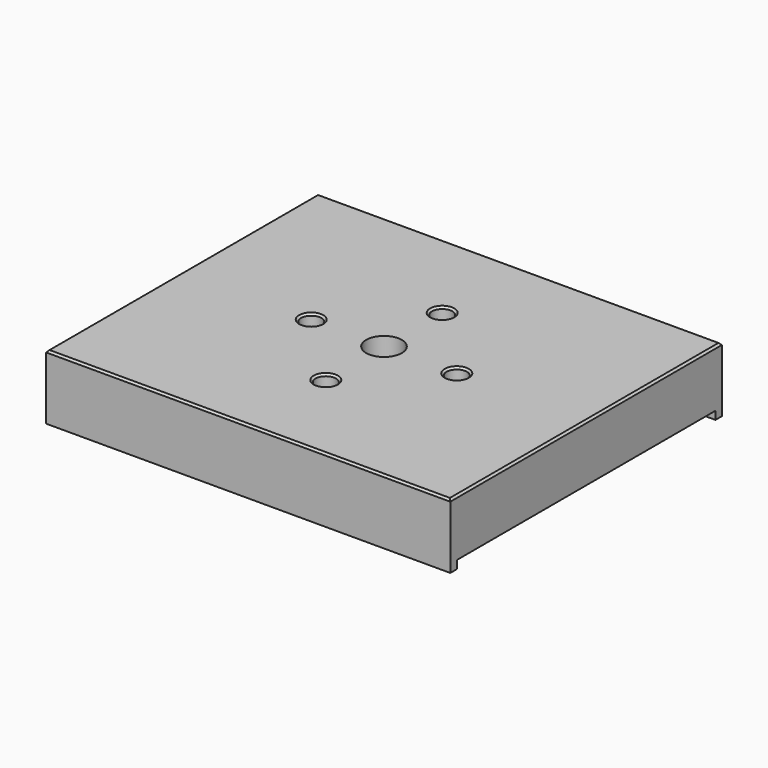
from build123d import *

# Parameters (mm, degrees)
F1_DEPTH = 158.75
F2_R     = 4
F3_DEPTH = 12.7
F4_SIZE  = 0.762
F5_D     = 14
F5_DEPTH = 16.16
F5_TIP   = 4.2060243332


with BuildPart() as f1:
    # F0 (on Right) → F1 (new body)
    with BuildSketch(Plane.YZ):
        Polygon((0, 25.4), (0, 0), (3.175, 0), (3.175, 3.175), (130.175, 3.175), (130.175, 0), (133.35, 0), (133.35, 25.4), align=None)
    extrude(amount=F1_DEPTH)

    # F2 (on face) → F3 (cut)
    with BuildSketch(Plane.XY.offset(25.4)):
        with Locations((79.375, 95.25)):
            Circle(F2_R)
        with Locations((50.8, 66.675)):
            Circle(F2_R)
        with Locations((79.375, 38.1)):
            Circle(F2_R)
        with Locations((107.95, 66.675)):
            Circle(F2_R)
    extrude(amount=-F3_DEPTH, mode=Mode.SUBTRACT)

    # F4
    f4_edges = [f1.edges().sort_by_distance(p)[0] for p in [
        (75.375, 95.25, 25.4),
        (103.95, 66.675, 25.4),
        (75.375, 38.1, 25.4),
        (46.8, 66.675, 25.4),
        (79.375, 133.35, 25.4),
        (0, 66.675, 25.4),
        (79.375, 0, 25.4),
        (158.75, 66.675, 25.4),
    ]]
    chamfer(f4_edges, length=F4_SIZE)

    # F5
    with Locations(Plane.XY.offset(25.4)):
        with Locations((79.375, 66.675)):
            Hole(F5_D / 2, depth=F5_DEPTH)
            with Locations((0, 0, -(F5_DEPTH + F5_TIP / 2))):  # 118° drill point
                Cone(0, F5_D / 2, F5_TIP, mode=Mode.SUBTRACT)


solid = f1.part
